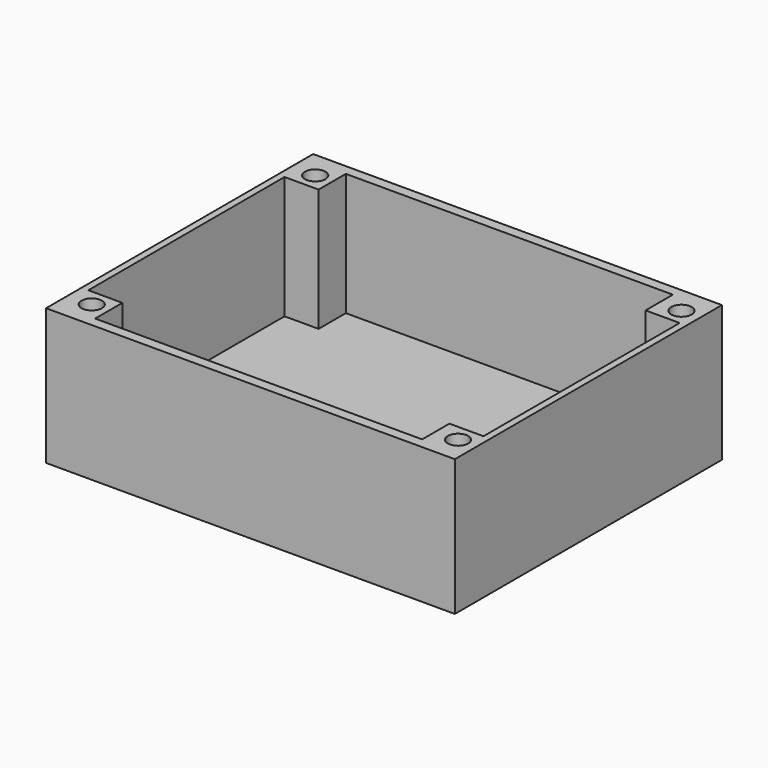
from build123d import *

# Parameters (mm, degrees)
F0_W     = 60
F0_H     = 49
F1_DEPTH = 20
F2_W     = 58
F2_H     = 46
F3_DEPTH = 18
F4_W     = 5
F4_H     = 5
F5_DEPTH = 18
F6_R     = 1.5
F7_DEPTH = 10


with BuildPart() as f1:
    # F0 (on Top) → F1 (new body)
    with BuildSketch(Plane.XY):
        Rectangle(F0_W, F0_H)
    extrude(amount=F1_DEPTH)

    # F2 (on face) → F3 (cut)
    with BuildSketch(Plane.XY.offset(20)):
        Rectangle(F2_W, F2_H)
    extrude(amount=-F3_DEPTH, mode=Mode.SUBTRACT)

    # F4 (on face) → F5 (join)
    with BuildSketch(Plane.XY.offset(2)):
        with Locations((-26.5, -20.5)):
            Rectangle(F4_W, F4_H)
        with Locations((26.5, -20.5)):
            Rectangle(F4_W, F4_H)
        with Locations((-26.5, 20.5)):
            Rectangle(F4_W, F4_H)
        with Locations((26.5, 20.5)):
            Rectangle(F4_W, F4_H)
    extrude(amount=F5_DEPTH)

    # F6 (on face) → F7 (cut)
    with BuildSketch(Plane.XY.offset(20)):
        with Locations((-26.5, -20.5)):
            Circle(F6_R)
        with Locations((-26.5, 20.5)):
            Circle(F6_R)
        with Locations((27.266302, 20.5)):
            Circle(F6_R)
        with Locations((27.266302, -20.5)):
            Circle(F6_R)
    extrude(amount=-F7_DEPTH, mode=Mode.SUBTRACT)


solid = f1.part
